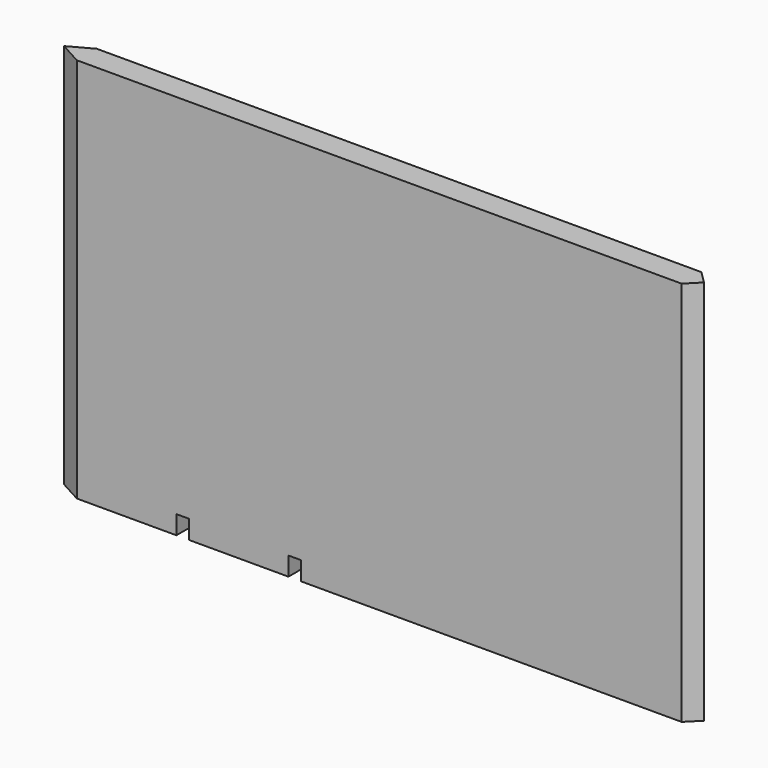
from build123d import *

# Parameters (mm, degrees)
F0_W     = 12.7
F0_H     = 25.4
F0_W_2   = 101.6
F1_DEPTH = 374.65
F2_DEPTH = 19.05


with BuildPart() as f1:
    # F0 (on Top) → F1 (new body)
    with BuildSketch(Plane.XY):
        Polygon((238.290359, 12.7), (238.290359, -12.7), (550.529847, -12.7), (626.729847, -12.7), (639.429847, 0), (626.729847, 12.7), (550.529847, 12.7), align=None)
        with Locations((231.940359, 0)):
            Rectangle(F0_W, F0_H)
        with Locations((174.790359, 0)):
            Rectangle(F0_W_2, F0_H)
        with Locations((117.640359, 0)):
            Rectangle(F0_W, F0_H)
        Polygon((-13.530665, 0), (9.690359, -12.7), (111.290359, -12.7), (111.290359, 12.7), (9.690359, 12.7), align=None)
    extrude(amount=F1_DEPTH)

    # F0 (on Top) → F2 (join)
    with BuildSketch(Plane.XY):
        Polygon((238.290359, 12.7), (238.290359, -12.7), (550.529847, -12.7), (626.729847, -12.7), (639.429847, 0), (626.729847, 12.7), (550.529847, 12.7), align=None)
        with Locations((174.790359, 0)):
            Rectangle(F0_W_2, F0_H)
        Polygon((-13.530665, 0), (9.690359, -12.7), (111.290359, -12.7), (111.290359, 12.7), (9.690359, 12.7), align=None)
    extrude(amount=-F2_DEPTH)


solid = f1.part
